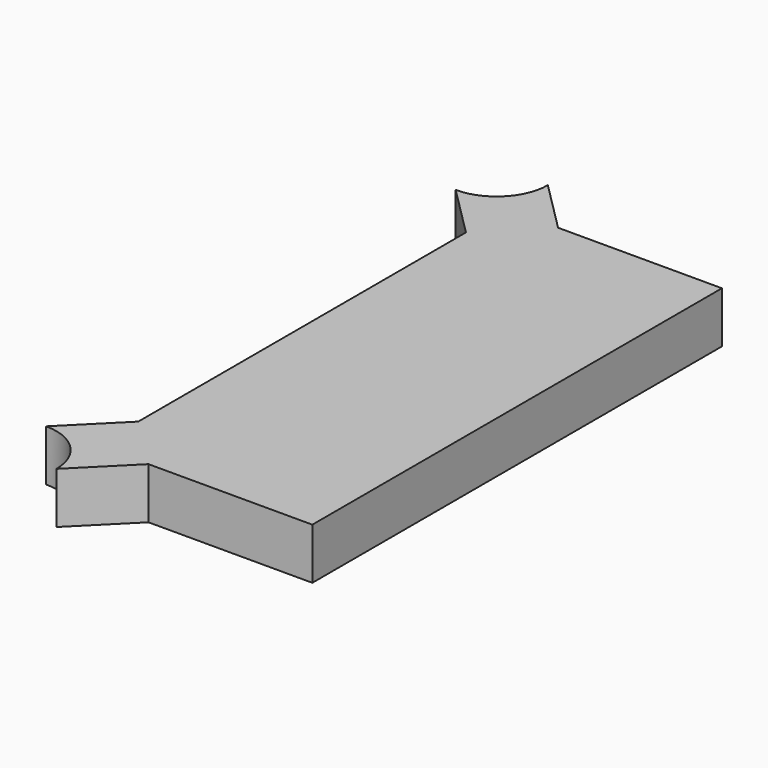
from build123d import *

# Parameters (mm, degrees)
PAD_DEPTH = 0.1


with BuildPart() as part:
    # Sketch → Pad (new body)
    with BuildSketch(Plane.XY):
        with BuildLine():
            Line((-0.5, 0.4), (-0.5, -0.4))
            Line((-0.5, -0.5), (-0.5, -0.4))
            Line((-0.6, -0.5), (-0.5, -0.5))
            Line((-0.6, -0.5), (-0.82, -0.5))
            Line((-0.82, -0.5), (-0.92, -0.6))
            ThreePointArc((-0.92, -0.6), (-0.949289, -0.529289), (-1.02, -0.5))
            Line((-1.02, -0.5), (-0.92, -0.4))
            Line((-0.92, -0.4), (-0.92, 0.4))
            Line((-0.92, 0.4), (-1.02, 0.5))
            ThreePointArc((-1.02, 0.5), (-0.949289, 0.529289), (-0.92, 0.6))
            Line((-0.92, 0.6), (-0.82, 0.5))
            Line((-0.82, 0.5), (-0.6, 0.5))
            Line((-0.6, 0.5), (-0.5, 0.5))
            Line((-0.5, 0.5), (-0.5, 0.4))
        make_face()
    extrude(amount=PAD_DEPTH)


solid = part.part
